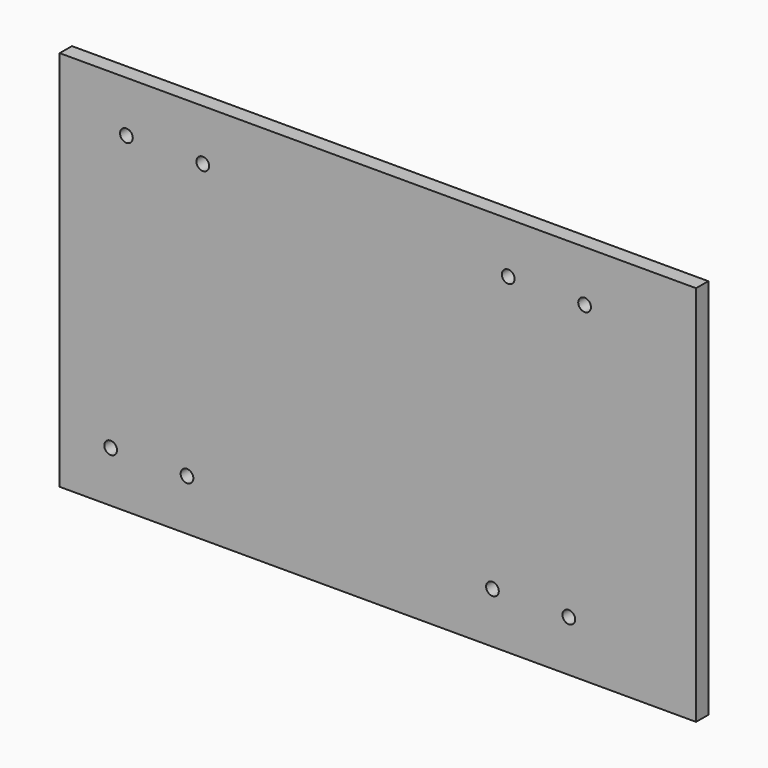
from build123d import *

# Parameters (mm, degrees)
F0_W     = 250
F0_H     = 150
F0_R     = 2.5
F1_DEPTH = 6


with BuildPart() as f1:
    # F0 (on Front) → F1 (new body)
    with BuildSketch(Plane.XZ):
        with Locations((12.172788, -5.012898)):
            Rectangle(F0_W, F0_H)
        with Locations((-92.827212, -60.012898)):
            Circle(F0_R, mode=Mode.SUBTRACT)
        with Locations((-62.827212, -60.012898)):
            Circle(F0_R, mode=Mode.SUBTRACT)
        with Locations((57.172788, -60.012898)):
            Circle(F0_R, mode=Mode.SUBTRACT)
        with Locations((87.172788, -60.012898)):
            Circle(F0_R, mode=Mode.SUBTRACT)
        with Locations((-86.622812, 49.987102)):
            Circle(F0_R, mode=Mode.SUBTRACT)
        with Locations((-56.622812, 49.987102)):
            Circle(F0_R, mode=Mode.SUBTRACT)
        with Locations((63.377188, 49.987102)):
            Circle(F0_R, mode=Mode.SUBTRACT)
        with Locations((93.377188, 49.987102)):
            Circle(F0_R, mode=Mode.SUBTRACT)
    extrude(amount=F1_DEPTH)


solid = f1.part
